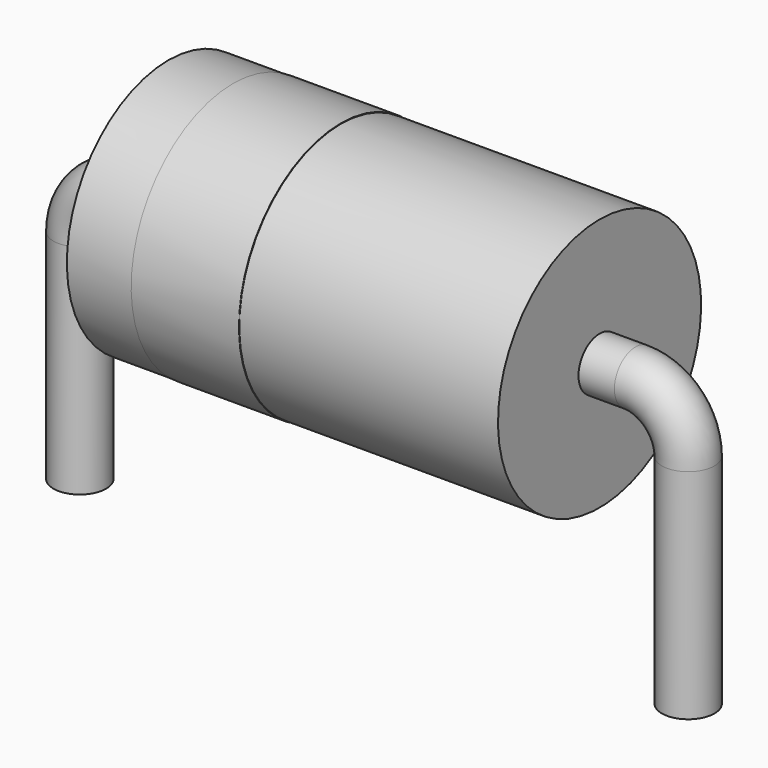
from build123d import *

# Parameters (mm, degrees)
SKETCH002_W = 9
SKETCH002_H = 2.65
SKETCH_R    = 0.55
SKETCH003_W = 2.25
SKETCH003_H = 0.02


with BuildPart() as revolution:
    # Sketch002 → Revolution (revolve)
    with BuildSketch(Plane.XZ):
        with Locations((6.35, 4.475)):
            Rectangle(SKETCH002_W, SKETCH002_H)
    revolve(axis=Axis((1.85, 0, 3.15), (1, 0, 0)))


with BuildPart() as sweep_body:
    # Sweep: sweep along a path in Sketch001
    with BuildLine(Plane.XZ) as sweep_path:
        Line((0, -2.5), (0, 2.05))
        ThreePointArc((0, 2.05), (0.322183, 2.827817), (1.1, 3.15))
        Line((1.1, 3.15), (11.6, 3.15))
        ThreePointArc((11.6, 3.15), (12.377817, 2.827817), (12.7, 2.05))
        Line((12.7, 2.05), (12.7, -2.5))
    # Sketch → Sweep (sweep)
    with BuildSketch(Plane.XY.offset(-2)):
        Circle(SKETCH_R)
    sweep(path=sweep_path.line)


with BuildPart() as obj1:
    # Sketch003 → Revolution001 (revolve)
    with BuildSketch(Plane.XZ):
        with Locations((4.325, 5.8)):
            Rectangle(SKETCH003_W, SKETCH003_H)
    revolve(axis=Axis((0, 0, 3.15), (1, 0, 0)))

    add(revolution.part)
    add(sweep_body.part)


solid = obj1.part
